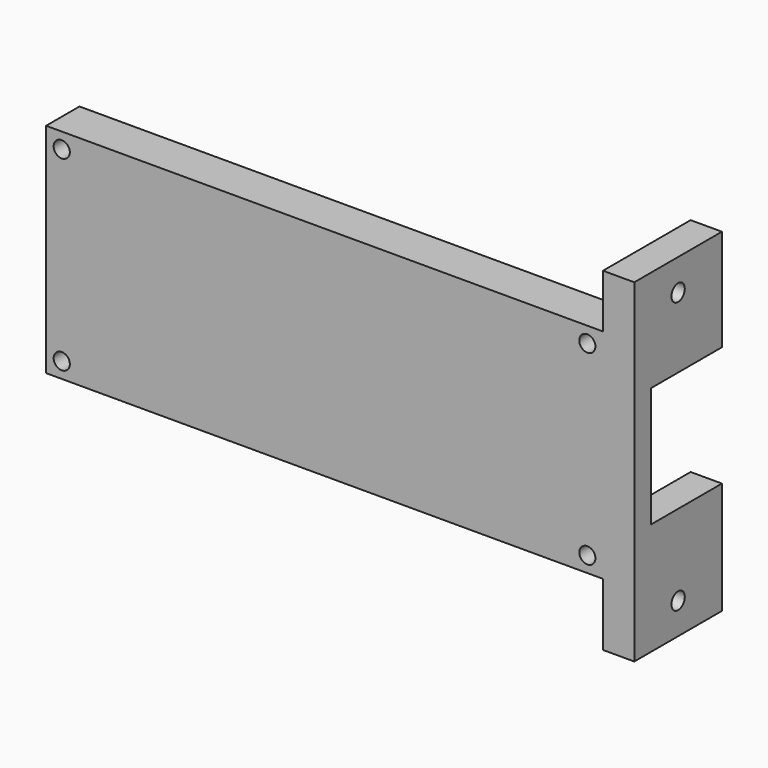
from build123d import *

# Parameters (mm, degrees)
BOX059_W                   = 15
BOX059_H                   = 6
BOX059_DEPTH               = 4
EXTRUDE027_DEPTH           = 5
EXTRUDE027_ROLL_ANGLE      = -90
EXTRUDE027_PLACEMENT_ANGLE = -90
CYLINDER053_R              = 1.6
CYLINDER053_DEPTH          = 10
CYLINDER052_R              = 1.6
CYLINDER052_DEPTH          = 10
SKETCH024_W                = 106.75
SKETCH024_H                = 41.75
SKETCH024_R                = 1.55
EXTRUDE024_DEPTH           = 8
EXTRUDE024_PLACEMENT_ANGLE = 270
BOX058_W                   = 6
BOX058_H                   = 17
BOX058_DEPTH               = 23
BOX056_W                   = 6
BOX056_H                   = 21
BOX056_DEPTH               = 64
TUBE003_R                  = 4
TUBE003_R_2                = 1.5
TUBE003_DEPTH              = 12


with BuildPart() as cube034:
    # Box059 → Box059 (new body)
    with BuildSketch(Plane(origin=(66.5, -0.9, 22.75), x_dir=(1, 0, 0), z_dir=(0, 0, 1))):
        with Locations((7.5, 3)):
            Rectangle(BOX059_W, BOX059_H)
    extrude(amount=BOX059_DEPTH)


with BuildPart() as extrude027:
    # Sketch028 → Extrude027 (new body)
    with BuildSketch(Plane.YZ):
        Polygon((10.25, 66.5), (10.25, 43.25), (12.9, 43.25), (12.9, 20.25), (16.15, 20.25), (16.15, 15.25), (24.15, 15.25), (24.15, 20.25), (27.4, 20.25), (27.4, 43.25), (30, 43.25), (30, 66.5), align=None)
    extrude(amount=EXTRUDE027_DEPTH)


with BuildPart() as extrude027_1:
    # Extrude027 roll: moved
    add(extrude027.part.rotate(Axis((0, 0, 0), (1, 0, 0)), EXTRUDE027_ROLL_ANGLE))


with BuildPart() as extrude027_2:
    # Extrude027 placement: moved
    add(extrude027_1.part.moved(Location((0, 4, 40.25))).rotate(Axis((0, 4, 40.25), (0, 0, 1)), EXTRUDE027_PLACEMENT_ANGLE))


with BuildPart() as cylinder053:
    # Cylinder053 → Cylinder053 (new body)
    with BuildSketch(Plane(origin=(114, 6.5, 46), x_dir=(0, 0, 1), z_dir=(-1, 0, 0))):
        Circle(CYLINDER053_R)
    extrude(amount=CYLINDER053_DEPTH)


with BuildPart() as m3cyl:
    # Cylinder052 → Cylinder052 (new body)
    with BuildSketch(Plane(origin=(114, 6.5, -6), x_dir=(0, 0, 1), z_dir=(-1, 0, 0))):
        Circle(CYLINDER052_R)
    extrude(amount=CYLINDER052_DEPTH)

    # Fusion038: union Cylinder053
    add(cylinder053.part)


with BuildPart() as bottom001:
    # Sketch024 → Extrude024 (new body)
    with BuildSketch(Plane.YZ):
        with Locations((53.375, 20.875)):
            Rectangle(SKETCH024_W, SKETCH024_H)
        with Locations((3, 3)):
            Circle(SKETCH024_R, mode=Mode.SUBTRACT)
        with Locations((3, 38.75)):
            Circle(SKETCH024_R, mode=Mode.SUBTRACT)
        with Locations((103.75, 38.75)):
            Circle(SKETCH024_R, mode=Mode.SUBTRACT)
        with Locations((103.75, 3)):
            Circle(SKETCH024_R, mode=Mode.SUBTRACT)
    extrude(amount=EXTRUDE024_DEPTH)


with BuildPart() as bottom001_1:
    # Extrude024 placement: moved
    add(bottom001.part.moved(Location((0, 4, 0))).rotate(Axis((0, 4, 0), (0, 0, 1)), EXTRUDE024_PLACEMENT_ANGLE))


with BuildPart() as basemount001:
    # Box058 → Box058 (new body)
    with BuildSketch(Plane(origin=(106.75, 0, 9.5), x_dir=(1, 0, 0), z_dir=(0, 0, 1))):
        with Locations((3, 8.5)):
            Rectangle(BOX058_W, BOX058_H)
    extrude(amount=BOX058_DEPTH)


with BuildPart() as obj1:
    # Box056 → Box056 (new body)
    with BuildSketch(Plane(origin=(106.75, -4, -12), x_dir=(1, 0, 0), z_dir=(0, 0, 1))):
        with Locations((3, 10.5)):
            Rectangle(BOX056_W, BOX056_H)
    extrude(amount=BOX056_DEPTH)

    # Cut038: cut baseMOunt001
    add(basemount001.part, mode=Mode.SUBTRACT)

    # Fusion037: union Bottom001
    add(bottom001_1.part)

    # Cut039: cut m3Cyl
    add(m3cyl.part, mode=Mode.SUBTRACT)

    # Cut040: cut Extrude027
    add(extrude027_2.part, mode=Mode.SUBTRACT)

    # Cut041: cut Cube034
    add(cube034.part, mode=Mode.SUBTRACT)


with BuildPart() as bottom002:
    # Tube003 → Tube003 (new body)
    with BuildSketch(Plane(origin=(71, 12, 18.5), x_dir=(0, 0, -1), z_dir=(0, -1, 0))):
        Circle(TUBE003_R)
        Circle(TUBE003_R_2, mode=Mode.SUBTRACT)
    extrude(amount=TUBE003_DEPTH)

    # Fusion039: union obj1
    add(obj1.part)


solid = bottom002.part
